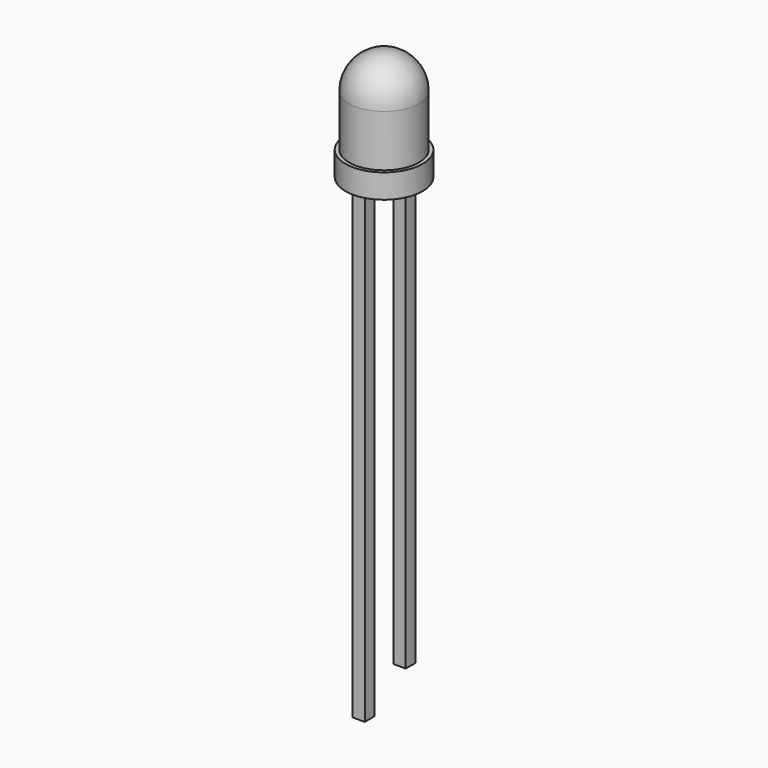
from build123d import *

# Parameters (mm, degrees)
F0_R     = 1.6
F1_DEPTH = 1
F2_R     = 1.45
F3_DEPTH = 3.6
F4_R     = 1.45
F5_W     = 0.5
F5_H     = 0.5
F6_DEPTH = 17.5
F7_DEPTH = 20


with BuildPart() as f1:
    # F0 (on Top) → F1 (new body)
    with BuildSketch(Plane.XY):
        Circle(F0_R)
    extrude(amount=F1_DEPTH)

    # F2 (on face) → F3 (join)
    with BuildSketch(Plane.XY.offset(1)):
        Circle(F2_R)
    extrude(amount=F3_DEPTH)

    # F4
    f4_edges = [f1.edges().sort_by_distance(p)[0] for p in [
        (-1.45, 0, 4.6),
    ]]
    fillet(f4_edges, radius=F4_R)


with BuildPart() as f6:
    # F5 (on face) → F6 (new body)
    with BuildSketch(Plane(origin=(0, 0, 0), x_dir=(1, 0, 0), z_dir=(0, 0, -1))):
        with Locations((0.85, 0)):
            Rectangle(F5_W, F5_H)
    extrude(amount=F6_DEPTH)


with BuildPart() as f7:
    # F5 (on face) → F7 (new body)
    with BuildSketch(Plane(origin=(0, 0, 0), x_dir=(1, 0, 0), z_dir=(0, 0, -1))):
        with Locations((-0.85, 0)):
            Rectangle(F5_W, F5_H)
    extrude(amount=F7_DEPTH)


solid = Compound([f1.part, f6.part, f7.part])
